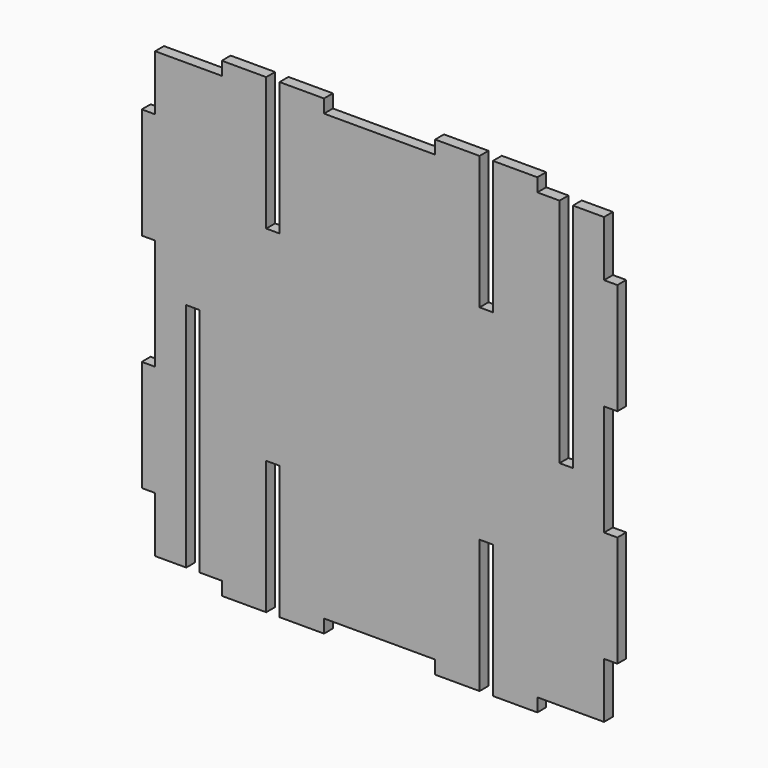
from build123d import *

# Parameters (mm, degrees)
F1_DEPTH = 2.5


with BuildPart() as f1:
    # F0 (on Front) → F1 (new body)
    with BuildSketch(Plane.XZ):
        Polygon((-64.714789, -30.02999), (-64.714789, -42.52999), (-57.714789, -42.52999), (-57.714789, 9.47001), (-54.714789, 9.47001), (-54.714789, -42.52999), (-49.714789, -42.52999), (-49.714789, -45.52999), (-39.714789, -45.52999), (-39.714789, -15.52999), (-36.714789, -15.52999), (-36.714789, -45.52999), (-26.714789, -45.52999), (-26.714789, -42.52999), (-1.714789, -42.52999), (-1.714789, -45.52999), (8.285211, -45.52999), (8.285211, -15.52999), (11.285211, -15.52999), (11.285211, -45.52999), (21.285211, -45.52999), (21.285211, -42.52999), (36.285211, -42.52999), (36.285211, -30.02999), (39.285211, -30.02999), (39.285211, -5.02999), (36.285211, -5.02999), (36.285211, 19.97001), (39.285211, 19.97001), (39.285211, 44.97001), (36.285211, 44.97001), (36.285211, 57.47001), (29.285211, 57.47001), (29.285211, 5.47001), (26.285211, 5.47001), (26.285211, 57.47001), (21.285211, 57.47001), (21.285211, 60.47001), (11.285211, 60.47001), (11.285211, 30.47001), (8.285211, 30.47001), (8.285211, 60.47001), (-1.714789, 60.47001), (-1.714789, 57.47001), (-26.714789, 57.47001), (-26.714789, 60.47001), (-36.714789, 60.47001), (-36.714789, 30.47001), (-39.714789, 30.47001), (-39.714789, 60.47001), (-49.714789, 60.47001), (-49.714789, 57.47001), (-64.714789, 57.47001), (-64.714789, 44.97001), (-67.714789, 44.97001), (-67.714789, 19.97001), (-64.714789, 19.97001), (-64.714789, -5.02999), (-67.714789, -5.02999), (-67.714789, -30.02999), align=None)
    extrude(amount=F1_DEPTH)


solid = f1.part
